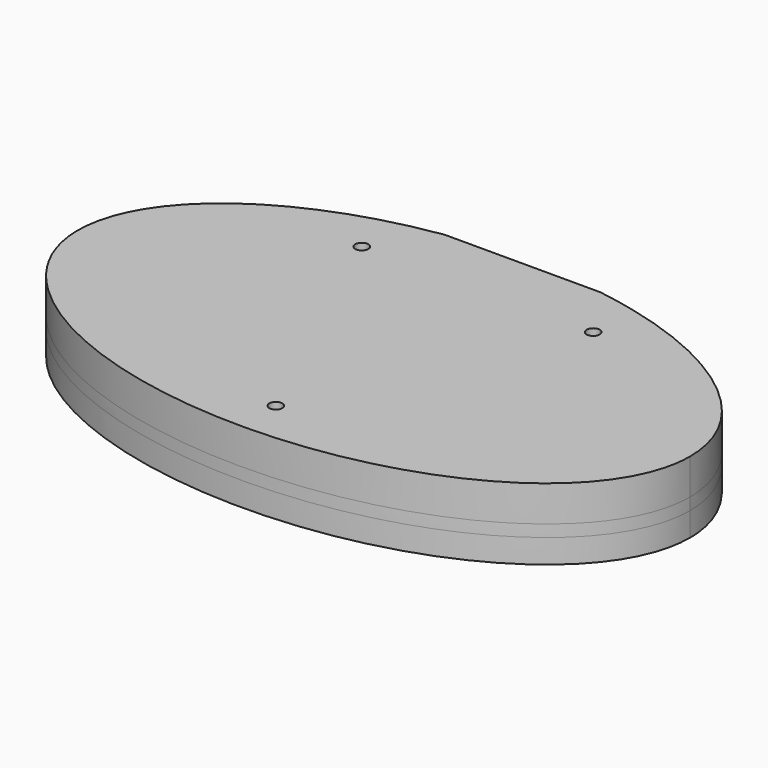
from build123d import *

# Parameters (mm, degrees)
BOX_BOTTOM_HALF_0_W     = 78.999568
BOX_BOTTOM_HALF_0_H     = 46.255487
BOX_BOTTOM_HALF_0_DEPTH = 5.5
PAD_DEPTH               = 6
POCKET_DEPTH            = 3
PAD001_DEPTH            = 3
SKETCH003_W             = 66
SKETCH003_H             = 2.77
POCKET001_DEPTH         = 3
SKETCH004_W             = 19.6
SKETCH004_H             = 1
POCKET002_DEPTH         = 9.001
SKETCH005_R             = 0.82
POCKET003_DEPTH         = 9.001


with BuildPart() as box_bottom_half_0_body:
    # box_bottom_half_0 → box_bottom_half_0 (new body)
    with BuildSketch(Plane(origin=(-39.499568, -23.496619, -4), x_dir=(1, 0, 0), z_dir=(0, 0, 1))):
        with Locations((39.499784, 23.127743)):
            Rectangle(BOX_BOTTOM_HALF_0_W, BOX_BOTTOM_HALF_0_H)
    extrude(amount=BOX_BOTTOM_HALF_0_DEPTH)


with BuildPart() as body:
    # Sketch → Pad (new body)
    with BuildSketch(Plane.XY):
        with BuildLine():
            add(Edge.make_bspline(
                [(38.5, 0), (38.5, 38.971143), (-19.25, 19.485572), (-77, 0), (-19.25, -19.485572), (38.5, -38.971143), (38.5, 0)],
                knots=[0, 0, 0, 2.094395, 2.094395, 4.18879, 4.18879, 6.283185, 6.283185, 6.283185], degree=2, weights=[1, 0.5, 1, 0.5, 1, 0.5, 1]))
        make_face()
    extrude(amount=PAD_DEPTH)

    # Sketch001 (on Face2 of Pad) → Pocket (cut)
    with BuildSketch(Plane(origin=(0, 0, 0), x_dir=(1, 0, 0), z_dir=(0, 0, -1))):
        Polygon((9.55, -3.696801), (9.55, -21.796801), (-9.55, -21.796801), (-9.55, -3.696801), (-33, -3.696801), (-33, 6.303199), (33, 6.303199), (33, -3.696801), align=None)
    extrude(amount=-POCKET_DEPTH, mode=Mode.SUBTRACT)

    # Sketch002 (on Face2 of Pocket) → Pad001 (join)
    with BuildSketch(Plane(origin=(0, 0, 0), x_dir=(1, 0, 0), z_dir=(0, 0, -1))):
        with BuildLine():
            add(Edge.make_bspline(
                [(38.5, 0), (38.5, 38.971143), (-19.25, 19.485572), (-77, 0), (-19.25, -19.485572), (38.5, -38.971143), (38.5, 0)],
                knots=[0, 0, 0, 2.094395, 2.094395, 4.18879, 4.18879, 6.283185, 6.283185, 6.283185], degree=2, weights=[1, 0.5, 1, 0.5, 1, 0.5, 1]))
        make_face()
    extrude(amount=PAD001_DEPTH)

    # Sketch003 (on Face4 of Pad001) → Pocket001 (cut)
    with BuildSketch(Plane(origin=(0, 0, -3), x_dir=(1, 0, 0), z_dir=(0, 0, -1))):
        with Locations((0, 1.303199)):
            Rectangle(SKETCH003_W, SKETCH003_H)
    extrude(amount=-POCKET001_DEPTH, mode=Mode.SUBTRACT)

    # Sketch004 (on Face4 of Pocket001) → Pocket002 (cut, through all)
    with BuildSketch(Plane(origin=(0, 0, -3), x_dir=(1, 0, 0), z_dir=(0, 0, -1))):
        with Locations((0, -22.258868)):
            Rectangle(SKETCH004_W, SKETCH004_H)
    extrude(amount=-POCKET002_DEPTH, mode=Mode.SUBTRACT)

    # Sketch005 (on Face7 of Pocket002) → Pocket003 (cut, through all)
    with BuildSketch(Plane(origin=(0, 0, -3), x_dir=(1, 0, 0), z_dir=(0, 0, -1))):
        with Locations((-14.55, -14.696801)):
            Circle(SKETCH005_R)
        with Locations((0, 17)):
            Circle(SKETCH005_R)
        with Locations((14.55, -14.696801)):
            Circle(SKETCH005_R)
    extrude(amount=-POCKET003_DEPTH, mode=Mode.SUBTRACT)


with BuildPart() as bottom_half_0_body:
    # bottom_half_0 base: copy of Body
    add(body.part)

    # bottom_half_0: intersect box_bottom_half_0 body
    add(box_bottom_half_0_body.part, mode=Mode.INTERSECT)


with BuildPart() as top_half_0_body:
    # top_half_0 base: copy of Body
    add(body.part)

    # top_half_0: cut box_bottom_half_0 body
    add(box_bottom_half_0_body.part, mode=Mode.SUBTRACT)


solid = Compound([bottom_half_0_body.part, top_half_0_body.part])
